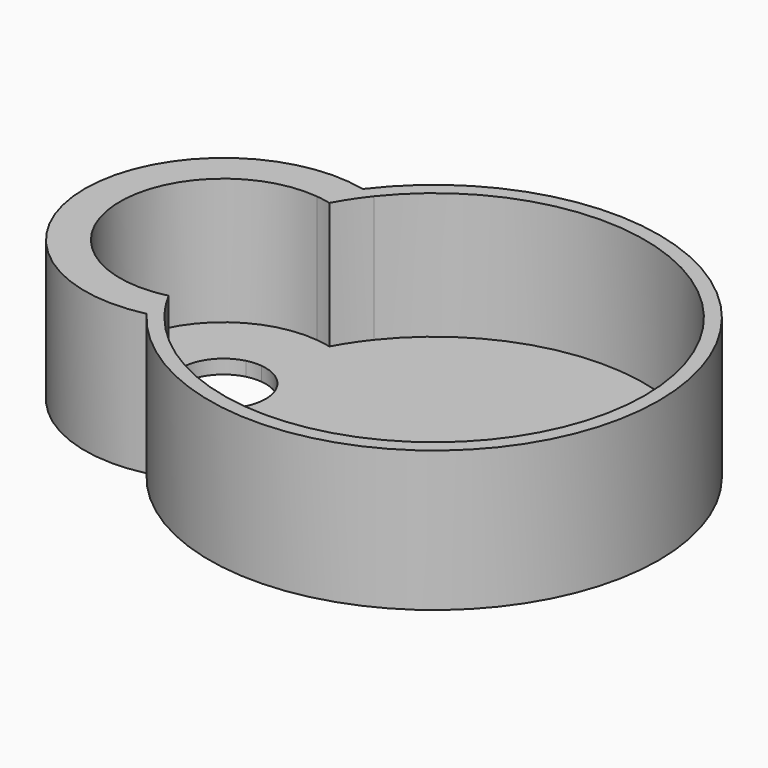
from build123d import *

# Parameters (mm, degrees)
F0_R     = 6.35
F1_DEPTH = 2.54
F2_DEPTH = 25.4


with BuildPart() as f1:
    # F0 (on Top) → F1 (new body)
    with BuildSketch(Plane.XY):
        with BuildLine():
            ThreePointArc((1.98040625, 18.6275212343), (3.3011106094, 18.4393390607), (4.6050729167, 18.157639155))
            ThreePointArc((4.6050729167, 18.157639155), (6.310350892, 21.0006716461), (8.2563229167, 23.6846983968))
            ThreePointArc((8.2563229167, 23.6846983968), (6.9543084231, 24.0991576742), (5.63165625, 24.4421000352))
            ThreePointArc((5.63165625, 24.4421000352), (3.6830183734, 21.6120562584), (1.98040625, 18.6275212343))
        make_face()
        with BuildLine():
            ThreePointArc((8.2563229167, -23.6846983968), (6.310350892, -21.0006716461), (4.6050729167, -18.157639155))
            ThreePointArc((4.6050729167, -18.157639155), (3.3011106094, -18.4393390607), (1.98040625, -18.6275212343))
            ThreePointArc((1.98040625, -18.6275212343), (3.6830183734, -21.6120562584), (5.63165625, -24.4421000352))
            ThreePointArc((5.63165625, -24.4421000352), (6.9543084231, -24.0991576742), (8.2563229167, -23.6846983968))
        make_face()
        with BuildLine():
            ThreePointArc((1.98040625, -18.6275212343), (-18.7325, 0), (1.98040625, 18.6275212343))
            ThreePointArc((1.98040625, 18.6275212343), (3.6830183734, 21.6120562584), (5.63165625, 24.4421000352))
            ThreePointArc((5.63165625, 24.4421000352), (-25.0825, 0), (5.63165625, -24.4421000352))
            ThreePointArc((5.63165625, -24.4421000352), (3.6830183734, -21.6120562584), (1.98040625, -18.6275212343))
        make_face()
        with BuildLine():
            ThreePointArc((5.63165625, 24.4421000352), (6.9543084231, 24.0991576742), (8.2563229167, 23.6846983968))
            ThreePointArc((8.2563229167, 23.6846983968), (50.64125, 35.9767570584), (76.2, 0))
            ThreePointArc((76.2, 0), (50.64125, -35.9767570584), (8.2563229167, -23.6846983968))
            ThreePointArc((8.2563229167, -23.6846983968), (6.9543084231, -24.0991576742), (5.63165625, -24.4421000352))
            ThreePointArc((5.63165625, -24.4421000352), (50.9859634875, -38.5429830838), (78.74, 0))
            ThreePointArc((78.74, 0), (50.9859634875, 38.5429830838), (5.63165625, 24.4421000352))
        make_face()
        with BuildLine():
            ThreePointArc((-1.8626666667, 7.388834339), (-0.3539283859, 13.1493342679), (1.98040625, 18.6275212343))
            ThreePointArc((1.98040625, 18.6275212343), (-18.7325, 0), (1.98040625, -18.6275212343))
            ThreePointArc((1.98040625, -18.6275212343), (-0.3539283859, -13.1493342679), (-1.8626666667, -7.388834339))
            ThreePointArc((-1.8626666667, -7.388834339), (-7.62, 0), (-1.8626666667, 7.388834339))
        make_face()
        with BuildLine():
            ThreePointArc((0.762, 7.5818042708), (2.2909514135, 13.012380233), (4.6050729167, 18.157639155))
            ThreePointArc((4.6050729167, 18.157639155), (3.3011106094, 18.4393390607), (1.98040625, 18.6275212343))
            ThreePointArc((1.98040625, 18.6275212343), (-0.3539283859, 13.1493342679), (-1.8626666667, 7.388834339))
            ThreePointArc((-1.8626666667, 7.388834339), (-0.5587272379, 7.5994883955), (0.762, 7.5818042708))
        make_face()
        with BuildLine():
            ThreePointArc((4.6050729167, -18.157639155), (14.7846387284, -11.5030871473), (18.7325, 0))
            ThreePointArc((18.7325, 0), (14.7846387284, 11.5030871473), (4.6050729167, 18.157639155))
            ThreePointArc((4.6050729167, 18.157639155), (2.2909514135, 13.012380233), (0.762, 7.5818042708))
            ThreePointArc((0.762, 7.5818042708), (5.6511432472, 5.1116513966), (7.62, 0))
            ThreePointArc((7.62, 0), (5.6511432472, -5.1116513966), (0.762, -7.5818042708))
            ThreePointArc((0.762, -7.5818042708), (2.2909514135, -13.012380233), (4.6050729167, -18.157639155))
        make_face()
        with BuildLine():
            ThreePointArc((1.98040625, -18.6275212343), (3.3011106094, -18.4393390607), (4.6050729167, -18.157639155))
            ThreePointArc((4.6050729167, -18.157639155), (2.2909514135, -13.012380233), (0.762, -7.5818042708))
            ThreePointArc((0.762, -7.5818042708), (-0.5587272379, -7.5994883955), (-1.8626666667, -7.388834339))
            ThreePointArc((-1.8626666667, -7.388834339), (-0.3539283859, -13.1493342679), (1.98040625, -18.6275212343))
        make_face()
        with BuildLine():
            ThreePointArc((4.6050729167, 18.157639155), (14.7846387284, 11.5030871473), (18.7325, 0))
            ThreePointArc((18.7325, 0), (14.7846387284, -11.5030871473), (4.6050729167, -18.157639155))
            ThreePointArc((4.6050729167, -18.157639155), (6.310350892, -21.0006716461), (8.2563229167, -23.6846983968))
            ThreePointArc((8.2563229167, -23.6846983968), (20.4477508031, -14.5265719751), (25.0825, 0))
            ThreePointArc((25.0825, 0), (20.4477508031, 14.5265719751), (8.2563229167, 23.6846983968))
            ThreePointArc((8.2563229167, 23.6846983968), (6.310350892, 21.0006716461), (4.6050729167, 18.157639155))
        make_face()
        with BuildLine():
            ThreePointArc((76.2, 0), (50.64125, 35.9767570584), (8.2563229167, 23.6846983968))
            ThreePointArc((8.2563229167, 23.6846983968), (20.4477508031, 14.5265719751), (25.0825, 0))
            ThreePointArc((25.0825, 0), (20.4477508031, -14.5265719751), (8.2563229167, -23.6846983968))
            ThreePointArc((8.2563229167, -23.6846983968), (50.64125, -35.9767570584), (76.2, 0))
        make_face()
        with Locations((38.1, 0)):
            Circle(F0_R, mode=Mode.SUBTRACT)
        with Locations((38.1, 0)):
            Circle(F0_R)
    extrude(amount=F1_DEPTH)

    # F0 (on Top) → F2 (join)
    with BuildSketch(Plane.XY):
        with BuildLine():
            ThreePointArc((5.63165625, 24.4421000352), (6.9543084231, 24.0991576742), (8.2563229167, 23.6846983968))
            ThreePointArc((8.2563229167, 23.6846983968), (50.64125, 35.9767570584), (76.2, 0))
            ThreePointArc((76.2, 0), (50.64125, -35.9767570584), (8.2563229167, -23.6846983968))
            ThreePointArc((8.2563229167, -23.6846983968), (6.9543084231, -24.0991576742), (5.63165625, -24.4421000352))
            ThreePointArc((5.63165625, -24.4421000352), (50.9859634875, -38.5429830838), (78.74, 0))
            ThreePointArc((78.74, 0), (50.9859634875, 38.5429830838), (5.63165625, 24.4421000352))
        make_face()
        with BuildLine():
            ThreePointArc((1.98040625, 18.6275212343), (3.3011106094, 18.4393390607), (4.6050729167, 18.157639155))
            ThreePointArc((4.6050729167, 18.157639155), (6.310350892, 21.0006716461), (8.2563229167, 23.6846983968))
            ThreePointArc((8.2563229167, 23.6846983968), (6.9543084231, 24.0991576742), (5.63165625, 24.4421000352))
            ThreePointArc((5.63165625, 24.4421000352), (3.6830183734, 21.6120562584), (1.98040625, 18.6275212343))
        make_face()
        with BuildLine():
            ThreePointArc((1.98040625, -18.6275212343), (-18.7325, 0), (1.98040625, 18.6275212343))
            ThreePointArc((1.98040625, 18.6275212343), (3.6830183734, 21.6120562584), (5.63165625, 24.4421000352))
            ThreePointArc((5.63165625, 24.4421000352), (-25.0825, 0), (5.63165625, -24.4421000352))
            ThreePointArc((5.63165625, -24.4421000352), (3.6830183734, -21.6120562584), (1.98040625, -18.6275212343))
        make_face()
        with BuildLine():
            ThreePointArc((8.2563229167, -23.6846983968), (6.310350892, -21.0006716461), (4.6050729167, -18.157639155))
            ThreePointArc((4.6050729167, -18.157639155), (3.3011106094, -18.4393390607), (1.98040625, -18.6275212343))
            ThreePointArc((1.98040625, -18.6275212343), (3.6830183734, -21.6120562584), (5.63165625, -24.4421000352))
            ThreePointArc((5.63165625, -24.4421000352), (6.9543084231, -24.0991576742), (8.2563229167, -23.6846983968))
        make_face()
    extrude(amount=F2_DEPTH)


solid = f1.part
